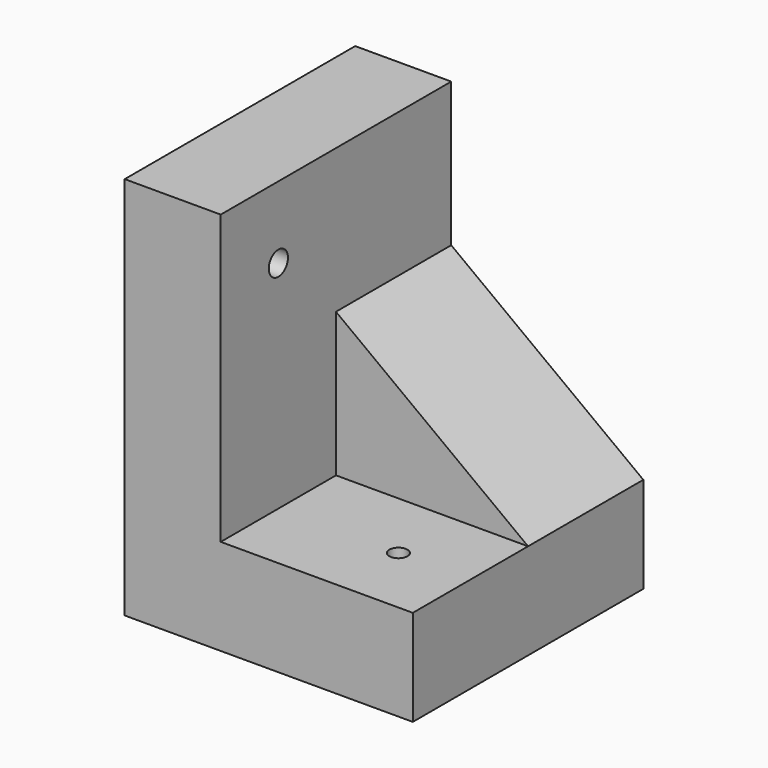
from build123d import *

# Parameters (mm, degrees)
F1_DEPTH = 152.4
F2_W     = 101.6
F2_H     = 76.2
F3_DEPTH = 76.2
F5_DEPTH = 76.2
F7_D     = 12.7
F9_D     = 9.525


with BuildPart() as f1:
    # F0 (on Front) → F1 (new body)
    with BuildSketch(Plane.XZ):
        Polygon((0, 152.4), (-50.8, 152.4), (-50.8, -50.8), (101.6, -50.8), (101.6, 0), (0, 0), align=None)
    extrude(amount=F1_DEPTH)

    # F2 (on face) → F3 (join)
    with BuildSketch(Plane.XY):
        with Locations((50.8, -38.1)):
            Rectangle(F2_W, F2_H)
        with Locations((50.8, -38.1)):
            Rectangle(F2_W, F2_H)
    extrude(amount=F3_DEPTH)

    # F4 (on face) → F5 (cut)
    with BuildSketch(Plane.XZ.offset(76.2)):
        Polygon((101.6, 76.2), (0, 76.2), (101.6, 0), align=None)
    extrude(amount=-F5_DEPTH, mode=Mode.SUBTRACT)

    # F7 (through all)
    with Locations(Plane.YZ):
        with Locations((-114.3, 114.3)):
            Hole(F7_D / 2)

    # F9 (through all)
    with Locations(Plane.XY):
        with Locations((63.5, -114.3)):
            Hole(F9_D / 2)


solid = f1.part
